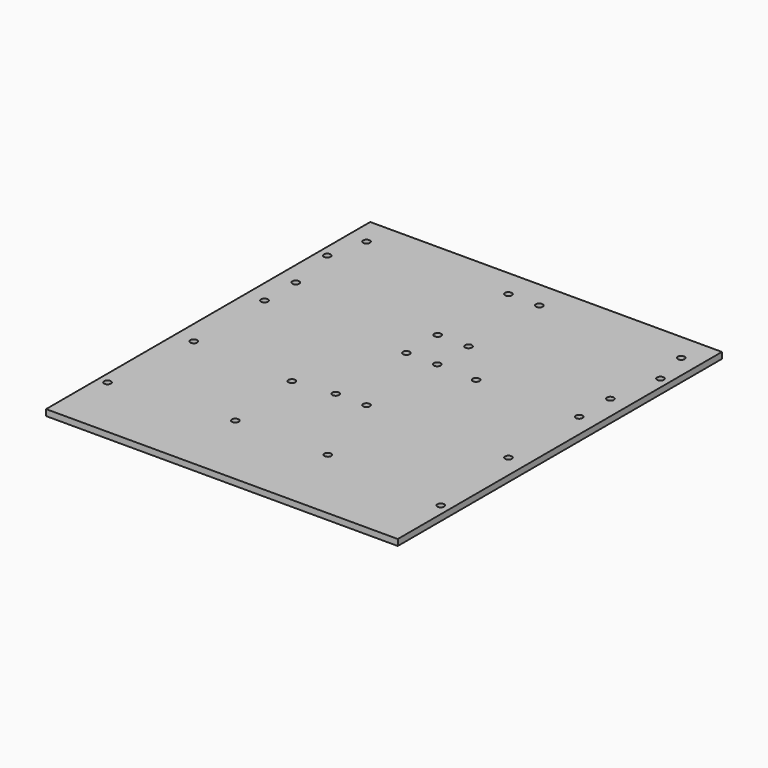
from build123d import *

# Parameters (mm, degrees)
F0_W     = 171
F0_H     = 197
F1_DEPTH = 3
F3_D     = 3.3
F5_D     = 3.3


with BuildPart() as f1:
    # F0 (on Top) → F1 (new body)
    with BuildSketch(Plane.XY):
        Rectangle(F0_W, F0_H)
    extrude(amount=F1_DEPTH)

    # F3 (through all)
    with Locations(Plane.XY.offset(3)):
        with Locations((-76.5, 85), (-7.5, 85), (-7.5, 42), (-76.5, 42), (-76.5, -20), (-76.5, 23), (-7.5, 23), (-7.5, -20), (7.5, -20), (7.5, 23), (76.5, 23), (76.5, -20), (7.5, 42), (76.5, 42), (76.5, 85), (7.5, 85), (21.5, -61), (-23.5, -61)):
            Hole(F3_D / 2)

    # F5 (through all)
    with Locations(Plane.XY.offset(3)):
        with Locations((-81, 66.75), (81, 66.75), (27, 22.25), (-27, -22.25), (-81, -66.75), (81, -66.75)):
            Hole(F5_D / 2)


solid = f1.part
